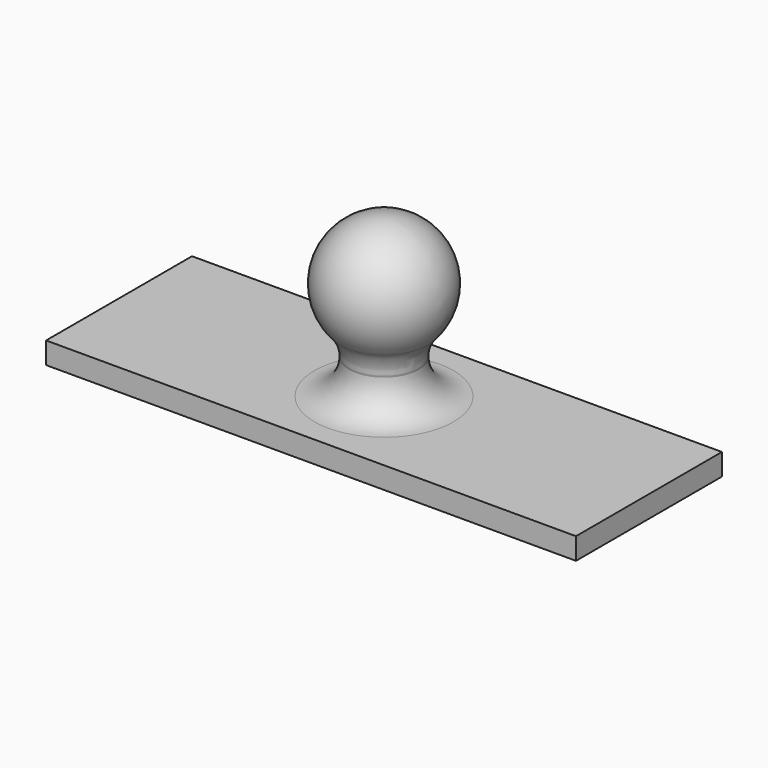
from build123d import *

# Parameters (mm, degrees)
F0_W     = 77.47
F0_H     = 26.67
F1_DEPTH = 3.175
F2_R     = 5.08
F3_DEPTH = 14.525168
F6_R     = 5.08


with BuildPart() as f1:
    # F0 (on Top) → F1 (new body)
    with BuildSketch(Plane.XY):
        Rectangle(F0_W, F0_H)
    extrude(amount=F1_DEPTH)

    # F2 (on face) → F3 (join)
    with BuildSketch(Plane.XY.offset(3.175)):
        Circle(F2_R)
    extrude(amount=F3_DEPTH)

    # F4 (on Front) → F5 (revolve)
    with BuildSketch(Plane.XZ):
        with BuildLine():
            Line((0, 26.399668), (0, 9.000668))
            ThreePointArc((0, 9.000668), (8.6995, 17.700168), (0, 26.399668))
        make_face()
    revolve(axis=Axis((0, 0, 17.700168), (0, 0, -1)))

    # F6
    f6_edges = [f1.edges().sort_by_distance(p)[0] for p in [
        (-5.08, 0, 3.175),
        (-5.08, 0, 10.637951),
    ]]
    fillet(f6_edges, radius=F6_R)


solid = f1.part
